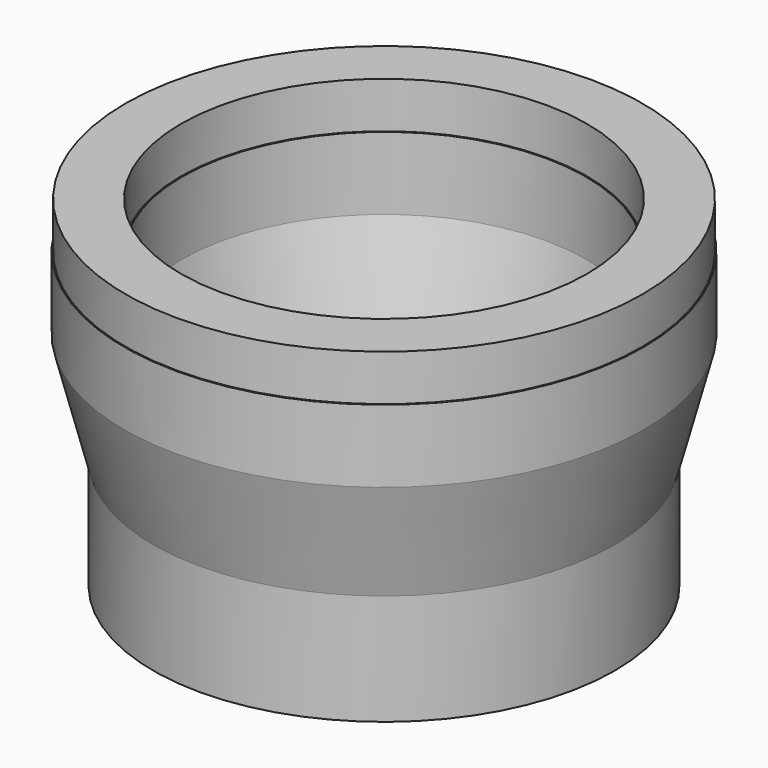
from build123d import *


with BuildPart() as f1:
    # F0 (on Front) → F1 (revolve)
    with BuildSketch(Plane.XZ):
        Polygon((-151, -254.865593), (-150, -254.865593), (-150, -158.865593), (-175, -62.865593), (-175, 0.134407), (-176, 0.134407), (-176, 40.134407), (-224, 40.134407), (-224, 0.134407), (-225, 0.134407), (-225, -62.865593), (-200, -158.865593), (-200, -254.865593), (-199, -254.865593), (-199, -214.865593), (-151, -214.865593), align=None)
    revolve(axis=Axis((0, 0, -0.829662), (0, 0, -1)))


solid = f1.part
